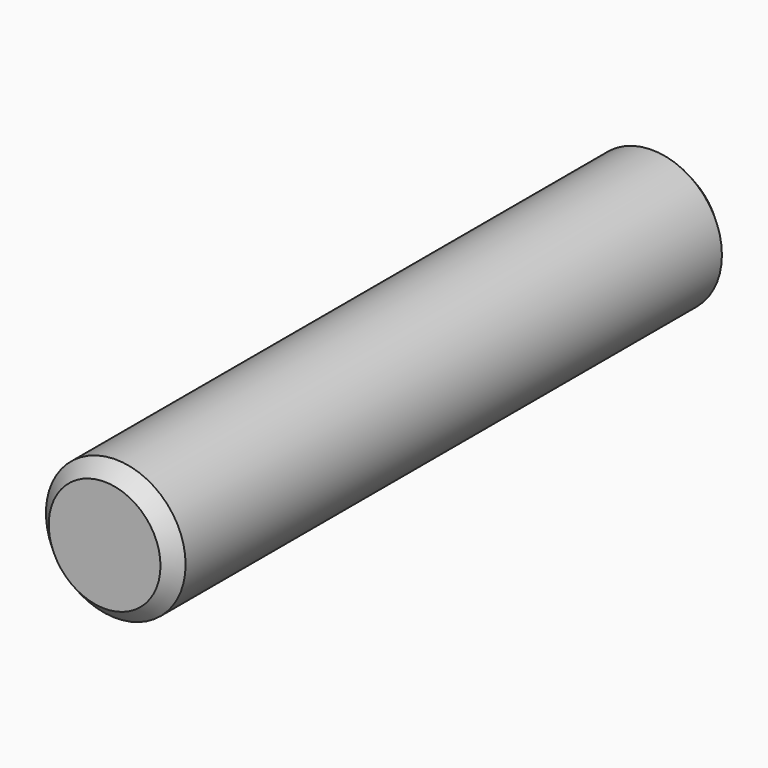
from build123d import *

# Parameters (mm, degrees)
F0_R     = 0.5
F1_DEPTH = 2.5
F2_SIZE  = 0.1


with BuildPart() as f1:
    # F0 (on Front) → F1 (new body)
    with BuildSketch(Plane.XZ):
        Circle(F0_R)
    extrude(amount=F1_DEPTH)

    # F2
    f2_edges = [f1.edges().sort_by_distance(p)[0] for p in [
        (-0.5, -2.5, 0),
    ]]
    chamfer(f2_edges, length=F2_SIZE)

    # F3: F1 across plane


with BuildPart() as f1_1:
    add(f1.part)
    add(f1.part.mirror(Plane.XZ))


solid = f1_1.part
